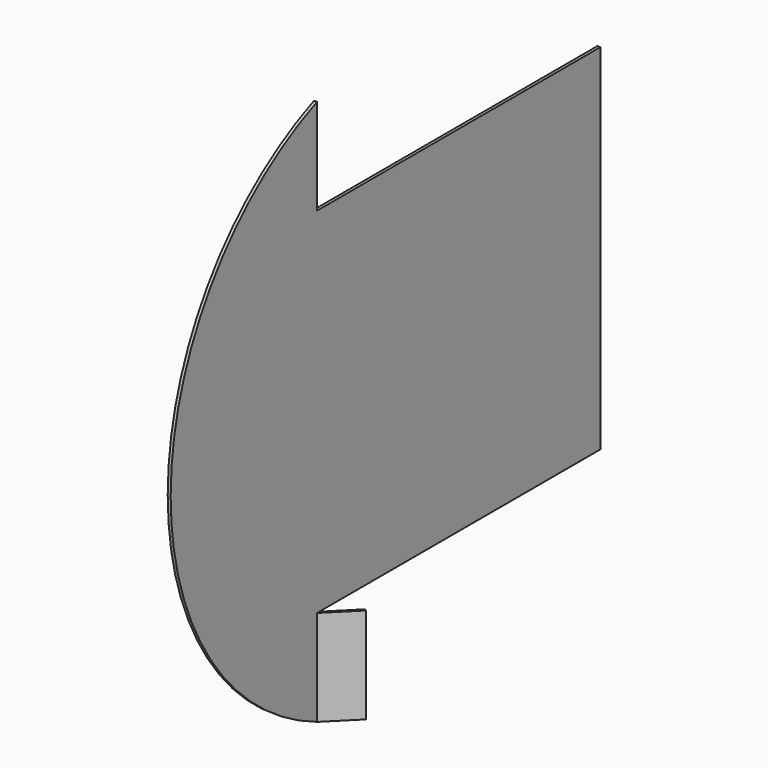
from build123d import *

# Parameters (mm, degrees)
F1_DEPTH = 6.35
F3_DEPTH = 206.273234


with BuildPart() as f1:
    # F0 (on Right) → F1 (new body)
    with BuildSketch(Plane.YZ):
        with BuildLine():
            Line((0, -206.273234), (0, 0))
            Line((0, 0), (762, 0))
            Line((762, 0), (762, 762))
            Line((762, 762), (0, 762))
            Line((0, 762), (0, 968.273234))
            ThreePointArc((0, 968.273234), (-393.473296, 381), (0, -206.273234))
        make_face()
    extrude(amount=F1_DEPTH)


with BuildPart() as f3:
    # F2 (on face) → F3 (new body, through all)
    with BuildSketch(Plane(origin=(0, 0, 0), x_dir=(1, 0, 0), z_dir=(0, 0, -1))):
        Polygon((64.721665, -58.371665), (6.35, 0), (0, 0), (6.35, -6.444361), (61.499484, -61.593845), align=None)
    extrude(amount=F3_DEPTH)


solid = Compound([f1.part, f3.part])
